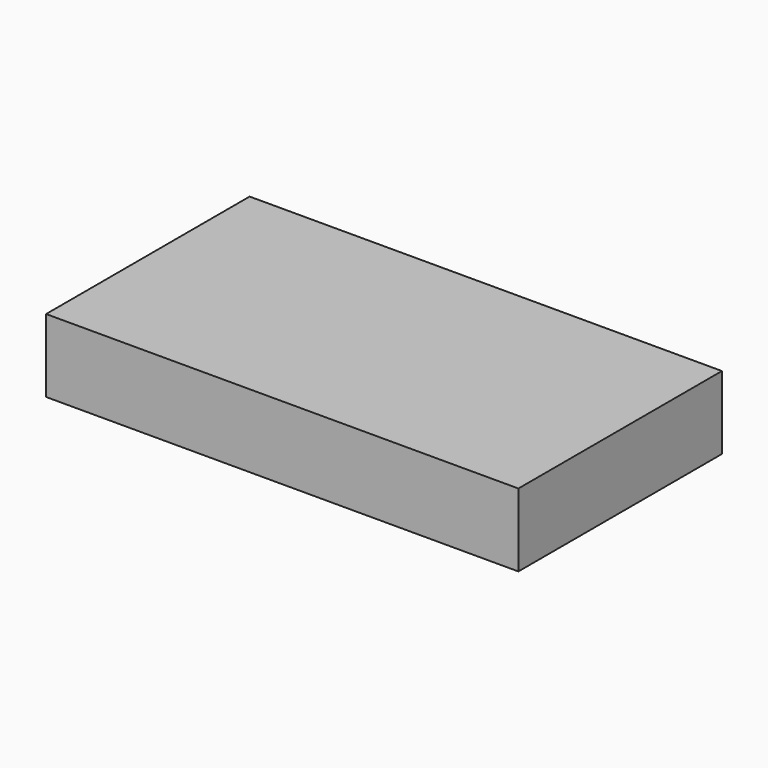
from build123d import *

# Parameters (mm, degrees)
CIRCLE001_R      = 0.5
EXTRUDE094_DEPTH = 10
CIRCLE002_R      = 0.5
EXTRUDE095_DEPTH = 10
CIRCLE003_R      = 0.5
EXTRUDE096_DEPTH = 10
RECTANGLE_W      = 64.662742
RECTANGLE_H      = 34.831528
EXTRUDE097_DEPTH = 10
CIRCLE_R         = 0.5
EXTRUDE093_DEPTH = 10


with BuildPart() as extrude094:
    # Circle001 → Extrude094 (new body)
    with BuildSketch(Plane(origin=(130.060043, -64.785744, 0), x_dir=(1, 0, 0), z_dir=(0, 0, 1))):
        Circle(CIRCLE001_R)
    extrude(amount=EXTRUDE094_DEPTH)


with BuildPart() as extrude095:
    # Circle002 → Extrude095 (new body)
    with BuildSketch(Plane(origin=(70.798393, -64.7696, 0), x_dir=(1, 0, 0), z_dir=(0, 0, 1))):
        Circle(CIRCLE002_R)
    extrude(amount=EXTRUDE095_DEPTH)


with BuildPart() as extrude096:
    # Circle003 → Extrude096 (new body)
    with BuildSketch(Plane(origin=(70.79007, -35.800797, 0), x_dir=(1, 0, 0), z_dir=(0, 0, 1))):
        Circle(CIRCLE003_R)
    extrude(amount=EXTRUDE096_DEPTH)


with BuildPart() as extrude097:
    # Rectangle → Extrude097 (new body)
    with BuildSketch(Plane(origin=(67.836318, -67.212706, 0), x_dir=(1, 0, 0), z_dir=(0, 0, 1))):
        with Locations((32.331371, 17.415764)):
            Rectangle(RECTANGLE_W, RECTANGLE_H)
    extrude(amount=EXTRUDE097_DEPTH)


with BuildPart() as fusion001:
    # Circle → Extrude093 (new body)
    with BuildSketch(Plane(origin=(130.059311, -35.555641, 0), x_dir=(1, 0, 0), z_dir=(0, 0, 1))):
        Circle(CIRCLE_R)
    extrude(amount=EXTRUDE093_DEPTH)

    # Fusion001: union Extrude094, Extrude095, Extrude096, Extrude097
    add(extrude094.part)
    add(extrude095.part)
    add(extrude096.part)
    add(extrude097.part)


solid = fusion001.part
